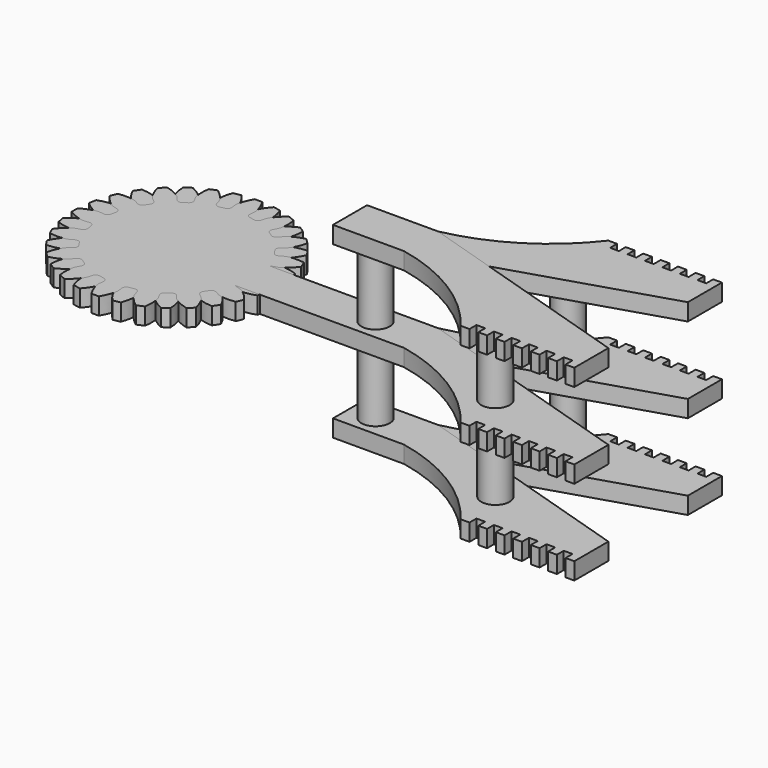
from build123d import *

# Parameters (mm, degrees)
PAD_DEPTH    = 3
SKETCH006_R  = 2.5
PAD010_DEPTH = 15
PAD008_DEPTH = 3
SKETCH005_R  = 2.5
PAD009_DEPTH = 15
SKETCH007_R  = 2.5
PAD011_DEPTH = 15
PAD006_DEPTH = 3
PAD007_DEPTH = 3
SKETCH008_R  = 2.5
PAD012_DEPTH = 15
PAD003_DEPTH = 3


with BuildPart() as pad:
    # InvoluteGear → Pad (new body)
    with BuildSketch(Plane(origin=(0, 0, 0), x_dir=(0.980785, 0.19509, 0), z_dir=(0, 0, 1))):
        with BuildLine():
            Line((14.139366, -1.605717), (14.972758, -1.698816))
            add(Edge.make_bspline(
                [(14.972758, -1.698816), (15.061139, -1.702923), (15.326896, -1.703611), (15.771393, -1.605021)],
                knots=[0, 0, 0, 0, 1, 1, 1, 1], degree=3))
            add(Edge.make_bspline(
                [(15.771393, -1.605021), (16.302142, -1.485065), (17.062829, -1.224624), (17.990102, -0.664599)],
                knots=[0, 0, 0, 0, 1, 1, 1, 1], degree=3))
            ThreePointArc((17.990102, -0.664599), (18.002375, 0), (17.990102, 0.664599))
            add(Edge.make_bspline(
                [(17.990102, 0.664599), (17.062829, 1.224624), (16.302142, 1.485065), (15.771393, 1.605021)],
                knots=[0, 0, 0, 0, 1, 1, 1, 1], degree=3))
            add(Edge.make_bspline(
                [(15.771393, 1.605021), (15.326896, 1.703611), (15.061139, 1.702923), (14.972758, 1.698816)],
                knots=[0, 0, 0, 0, 1, 1, 1, 1], degree=3))
            Line((14.972758, 1.698816), (14.139366, 1.605717))
            ThreePointArc((14.139366, 1.605717), (13.603637, 1.751754), (13.315176, 2.226224))
            ThreePointArc((13.315176, 2.226224), (13.240601, 2.633719), (13.153558, 3.038734))
            ThreePointArc((13.153558, 3.038734), (13.238489, 3.587477), (13.677552, 3.927412))
            Line((13.677552, 3.927412), (14.483134, 4.160325))
            add(Edge.make_bspline(
                [(14.483134, 4.160325), (14.566358, 4.190353), (14.81215, 4.291418), (15.185082, 4.552604)],
                knots=[0, 0, 0, 0, 1, 1, 1, 1], degree=3))
            add(Edge.make_bspline(
                [(15.185082, 4.552604), (15.629525, 4.866539), (16.232642, 5.398257), (16.875018, 6.270505)],
                knots=[0, 0, 0, 0, 1, 1, 1, 1], degree=3))
            ThreePointArc((16.875018, 6.270505), (16.632026, 6.889211), (16.366356, 7.498523))
            add(Edge.make_bspline(
                [(16.366356, 7.498523), (15.295356, 7.661067), (14.492906, 7.610581), (13.956652, 7.518297)],
                knots=[0, 0, 0, 0, 1, 1, 1, 1], degree=3))
            add(Edge.make_bspline(
                [(13.956652, 7.518297), (13.508262, 7.439281), (13.262997, 7.336944), (13.182916, 7.299328)],
                knots=[0, 0, 0, 0, 1, 1, 1, 1], degree=3))
            Line((13.182916, 7.299328), (12.448589, 6.894391))
            ThreePointArc((12.448589, 6.894391), (11.897755, 6.824296), (11.44968, 7.152261))
            ThreePointArc((11.44968, 7.152261), (11.22484, 7.500198), (10.98943, 7.841073))
            ThreePointArc((10.98943, 7.841073), (10.857901, 8.380547), (11.133455, 8.862628))
            Line((11.133455, 8.862628), (11.788583, 9.386095))
            add(Edge.make_bspline(
                [(11.788583, 9.386095), (11.853982, 9.445685), (12.042387, 9.633117), (12.28698, 10.017138)],
                knots=[0, 0, 0, 0, 1, 1, 1, 1], degree=3))
            add(Edge.make_bspline(
                [(12.28698, 10.017138), (12.577455, 10.477256), (12.931182, 11.199303), (13.190866, 12.250981)],
                knots=[0, 0, 0, 0, 1, 1, 1, 1], degree=3))
            ThreePointArc((13.190866, 12.250981), (12.729602, 12.729602), (12.250981, 13.190866))
            add(Edge.make_bspline(
                [(12.250981, 13.190866), (11.199303, 12.931182), (10.477256, 12.577455), (10.017138, 12.28698)],
                knots=[0, 0, 0, 0, 1, 1, 1, 1], degree=3))
            add(Edge.make_bspline(
                [(10.017138, 12.28698), (9.633117, 12.042387), (9.445685, 11.853982), (9.386095, 11.788583)],
                knots=[0, 0, 0, 0, 1, 1, 1, 1], degree=3))
            Line((9.386095, 11.788583), (8.862628, 11.133455))
            ThreePointArc((8.862628, 11.133455), (8.380547, 10.857901), (7.841073, 10.98943))
            ThreePointArc((7.841073, 10.98943), (7.500198, 11.22484), (7.152261, 11.44968))
            ThreePointArc((7.152261, 11.44968), (6.824296, 11.897755), (6.894391, 12.448589))
            Line((6.894391, 12.448589), (7.299328, 13.182916))
            add(Edge.make_bspline(
                [(7.299328, 13.182916), (7.336944, 13.262997), (7.439281, 13.508262), (7.518297, 13.956652)],
                knots=[0, 0, 0, 0, 1, 1, 1, 1], degree=3))
            add(Edge.make_bspline(
                [(7.518297, 13.956652), (7.610581, 14.492906), (7.661067, 15.295356), (7.498523, 16.366356)],
                knots=[0, 0, 0, 0, 1, 1, 1, 1], degree=3))
            ThreePointArc((7.498523, 16.366356), (6.889211, 16.632026), (6.270505, 16.875018))
            add(Edge.make_bspline(
                [(6.270505, 16.875018), (5.398257, 16.232642), (4.866539, 15.629525), (4.552604, 15.185082)],
                knots=[0, 0, 0, 0, 1, 1, 1, 1], degree=3))
            add(Edge.make_bspline(
                [(4.552604, 15.185082), (4.291418, 14.81215), (4.190353, 14.566358), (4.160325, 14.483134)],
                knots=[0, 0, 0, 0, 1, 1, 1, 1], degree=3))
            Line((4.160325, 14.483134), (3.927412, 13.677552))
            ThreePointArc((3.927412, 13.677552), (3.587477, 13.238489), (3.038734, 13.153558))
            ThreePointArc((3.038734, 13.153558), (2.633719, 13.240601), (2.226224, 13.315176))
            ThreePointArc((2.226224, 13.315176), (1.751754, 13.603637), (1.605717, 14.139366))
            Line((1.605717, 14.139366), (1.698816, 14.972758))
            add(Edge.make_bspline(
                [(1.698816, 14.972758), (1.702923, 15.061139), (1.703611, 15.326896), (1.605021, 15.771393)],
                knots=[0, 0, 0, 0, 1, 1, 1, 1], degree=3))
            add(Edge.make_bspline(
                [(1.605021, 15.771393), (1.485065, 16.302142), (1.224624, 17.062829), (0.664599, 17.990102)],
                knots=[0, 0, 0, 0, 1, 1, 1, 1], degree=3))
            ThreePointArc((0.664599, 17.990102), (0, 18.002375), (-0.664599, 17.990102))
            add(Edge.make_bspline(
                [(-0.664599, 17.990102), (-1.224624, 17.062829), (-1.485065, 16.302142), (-1.605021, 15.771393)],
                knots=[0, 0, 0, 0, 1, 1, 1, 1], degree=3))
            add(Edge.make_bspline(
                [(-1.605021, 15.771393), (-1.703611, 15.326896), (-1.702923, 15.061139), (-1.698816, 14.972758)],
                knots=[0, 0, 0, 0, 1, 1, 1, 1], degree=3))
            Line((-1.698816, 14.972758), (-1.605717, 14.139366))
            ThreePointArc((-1.605717, 14.139366), (-1.751754, 13.603637), (-2.226224, 13.315176))
            ThreePointArc((-2.226224, 13.315176), (-2.633719, 13.240601), (-3.038734, 13.153558))
            ThreePointArc((-3.038734, 13.153558), (-3.587477, 13.238489), (-3.927412, 13.677552))
            Line((-3.927412, 13.677552), (-4.160325, 14.483134))
            add(Edge.make_bspline(
                [(-4.160325, 14.483134), (-4.190353, 14.566358), (-4.291418, 14.81215), (-4.552604, 15.185082)],
                knots=[0, 0, 0, 0, 1, 1, 1, 1], degree=3))
            add(Edge.make_bspline(
                [(-4.552604, 15.185082), (-4.866539, 15.629525), (-5.398257, 16.232642), (-6.270505, 16.875018)],
                knots=[0, 0, 0, 0, 1, 1, 1, 1], degree=3))
            ThreePointArc((-6.270505, 16.875018), (-6.889211, 16.632026), (-7.498523, 16.366356))
            add(Edge.make_bspline(
                [(-7.498523, 16.366356), (-7.661067, 15.295356), (-7.610581, 14.492906), (-7.518297, 13.956652)],
                knots=[0, 0, 0, 0, 1, 1, 1, 1], degree=3))
            add(Edge.make_bspline(
                [(-7.518297, 13.956652), (-7.439281, 13.508262), (-7.336944, 13.262997), (-7.299328, 13.182916)],
                knots=[0, 0, 0, 0, 1, 1, 1, 1], degree=3))
            Line((-7.299328, 13.182916), (-6.894391, 12.448589))
            ThreePointArc((-6.894391, 12.448589), (-6.824296, 11.897755), (-7.152261, 11.44968))
            ThreePointArc((-7.152261, 11.44968), (-7.500198, 11.22484), (-7.841073, 10.98943))
            ThreePointArc((-7.841073, 10.98943), (-8.380547, 10.857901), (-8.862628, 11.133455))
            Line((-8.862628, 11.133455), (-9.386095, 11.788583))
            add(Edge.make_bspline(
                [(-9.386095, 11.788583), (-9.445685, 11.853982), (-9.633117, 12.042387), (-10.017138, 12.28698)],
                knots=[0, 0, 0, 0, 1, 1, 1, 1], degree=3))
            add(Edge.make_bspline(
                [(-10.017138, 12.28698), (-10.477256, 12.577455), (-11.199303, 12.931182), (-12.250981, 13.190866)],
                knots=[0, 0, 0, 0, 1, 1, 1, 1], degree=3))
            ThreePointArc((-12.250981, 13.190866), (-12.729602, 12.729602), (-13.190866, 12.250981))
            add(Edge.make_bspline(
                [(-13.190866, 12.250981), (-12.931182, 11.199303), (-12.577455, 10.477256), (-12.28698, 10.017138)],
                knots=[0, 0, 0, 0, 1, 1, 1, 1], degree=3))
            add(Edge.make_bspline(
                [(-12.28698, 10.017138), (-12.042387, 9.633117), (-11.853982, 9.445685), (-11.788583, 9.386095)],
                knots=[0, 0, 0, 0, 1, 1, 1, 1], degree=3))
            Line((-11.788583, 9.386095), (-11.133455, 8.862628))
            ThreePointArc((-11.133455, 8.862628), (-10.857901, 8.380547), (-10.98943, 7.841073))
            ThreePointArc((-10.98943, 7.841073), (-11.22484, 7.500198), (-11.44968, 7.152261))
            ThreePointArc((-11.44968, 7.152261), (-11.897755, 6.824296), (-12.448589, 6.894391))
            Line((-12.448589, 6.894391), (-13.182916, 7.299328))
            add(Edge.make_bspline(
                [(-13.182916, 7.299328), (-13.262997, 7.336944), (-13.508262, 7.439281), (-13.956652, 7.518297)],
                knots=[0, 0, 0, 0, 1, 1, 1, 1], degree=3))
            add(Edge.make_bspline(
                [(-13.956652, 7.518297), (-14.492906, 7.610581), (-15.295356, 7.661067), (-16.366356, 7.498523)],
                knots=[0, 0, 0, 0, 1, 1, 1, 1], degree=3))
            ThreePointArc((-16.366356, 7.498523), (-16.632026, 6.889211), (-16.875018, 6.270505))
            add(Edge.make_bspline(
                [(-16.875018, 6.270505), (-16.232642, 5.398257), (-15.629525, 4.866539), (-15.185082, 4.552604)],
                knots=[0, 0, 0, 0, 1, 1, 1, 1], degree=3))
            add(Edge.make_bspline(
                [(-15.185082, 4.552604), (-14.81215, 4.291418), (-14.566358, 4.190353), (-14.483134, 4.160325)],
                knots=[0, 0, 0, 0, 1, 1, 1, 1], degree=3))
            Line((-14.483134, 4.160325), (-13.677552, 3.927412))
            ThreePointArc((-13.677552, 3.927412), (-13.238489, 3.587477), (-13.153558, 3.038734))
            ThreePointArc((-13.153558, 3.038734), (-13.240601, 2.633719), (-13.315176, 2.226224))
            ThreePointArc((-13.315176, 2.226224), (-13.603637, 1.751754), (-14.139366, 1.605717))
            Line((-14.139366, 1.605717), (-14.972758, 1.698816))
            add(Edge.make_bspline(
                [(-14.972758, 1.698816), (-15.061139, 1.702923), (-15.326896, 1.703611), (-15.771393, 1.605021)],
                knots=[0, 0, 0, 0, 1, 1, 1, 1], degree=3))
            add(Edge.make_bspline(
                [(-15.771393, 1.605021), (-16.302142, 1.485065), (-17.062829, 1.224624), (-17.990102, 0.664599)],
                knots=[0, 0, 0, 0, 1, 1, 1, 1], degree=3))
            ThreePointArc((-17.990102, 0.664599), (-18.002375, 0), (-17.990102, -0.664599))
            add(Edge.make_bspline(
                [(-17.990102, -0.664599), (-17.062829, -1.224624), (-16.302142, -1.485065), (-15.771393, -1.605021)],
                knots=[0, 0, 0, 0, 1, 1, 1, 1], degree=3))
            add(Edge.make_bspline(
                [(-15.771393, -1.605021), (-15.326896, -1.703611), (-15.061139, -1.702923), (-14.972758, -1.698816)],
                knots=[0, 0, 0, 0, 1, 1, 1, 1], degree=3))
            Line((-14.972758, -1.698816), (-14.139366, -1.605717))
            ThreePointArc((-14.139366, -1.605717), (-13.603637, -1.751754), (-13.315176, -2.226224))
            ThreePointArc((-13.315176, -2.226224), (-13.240601, -2.633719), (-13.153558, -3.038734))
            ThreePointArc((-13.153558, -3.038734), (-13.238489, -3.587477), (-13.677552, -3.927412))
            Line((-13.677552, -3.927412), (-14.483134, -4.160325))
            add(Edge.make_bspline(
                [(-14.483134, -4.160325), (-14.566358, -4.190353), (-14.81215, -4.291418), (-15.185082, -4.552604)],
                knots=[0, 0, 0, 0, 1, 1, 1, 1], degree=3))
            add(Edge.make_bspline(
                [(-15.185082, -4.552604), (-15.629525, -4.866539), (-16.232642, -5.398257), (-16.875018, -6.270505)],
                knots=[0, 0, 0, 0, 1, 1, 1, 1], degree=3))
            ThreePointArc((-16.875018, -6.270505), (-16.632026, -6.889211), (-16.366356, -7.498523))
            add(Edge.make_bspline(
                [(-16.366356, -7.498523), (-15.295356, -7.661067), (-14.492906, -7.610581), (-13.956652, -7.518297)],
                knots=[0, 0, 0, 0, 1, 1, 1, 1], degree=3))
            add(Edge.make_bspline(
                [(-13.956652, -7.518297), (-13.508262, -7.439281), (-13.262997, -7.336944), (-13.182916, -7.299328)],
                knots=[0, 0, 0, 0, 1, 1, 1, 1], degree=3))
            Line((-13.182916, -7.299328), (-12.448589, -6.894391))
            ThreePointArc((-12.448589, -6.894391), (-11.897755, -6.824296), (-11.44968, -7.152261))
            ThreePointArc((-11.44968, -7.152261), (-11.22484, -7.500198), (-10.98943, -7.841073))
            ThreePointArc((-10.98943, -7.841073), (-10.857901, -8.380547), (-11.133455, -8.862628))
            Line((-11.133455, -8.862628), (-11.788583, -9.386095))
            add(Edge.make_bspline(
                [(-11.788583, -9.386095), (-11.853982, -9.445685), (-12.042387, -9.633117), (-12.28698, -10.017138)],
                knots=[0, 0, 0, 0, 1, 1, 1, 1], degree=3))
            add(Edge.make_bspline(
                [(-12.28698, -10.017138), (-12.577455, -10.477256), (-12.931182, -11.199303), (-13.190866, -12.250981)],
                knots=[0, 0, 0, 0, 1, 1, 1, 1], degree=3))
            ThreePointArc((-13.190866, -12.250981), (-12.729602, -12.729602), (-12.250981, -13.190866))
            add(Edge.make_bspline(
                [(-12.250981, -13.190866), (-11.199303, -12.931182), (-10.477256, -12.577455), (-10.017138, -12.28698)],
                knots=[0, 0, 0, 0, 1, 1, 1, 1], degree=3))
            add(Edge.make_bspline(
                [(-10.017138, -12.28698), (-9.633117, -12.042387), (-9.445685, -11.853982), (-9.386095, -11.788583)],
                knots=[0, 0, 0, 0, 1, 1, 1, 1], degree=3))
            Line((-9.386095, -11.788583), (-8.862628, -11.133455))
            ThreePointArc((-8.862628, -11.133455), (-8.380547, -10.857901), (-7.841073, -10.98943))
            ThreePointArc((-7.841073, -10.98943), (-7.500198, -11.22484), (-7.152261, -11.44968))
            ThreePointArc((-7.152261, -11.44968), (-6.824296, -11.897755), (-6.894391, -12.448589))
            Line((-6.894391, -12.448589), (-7.299328, -13.182916))
            add(Edge.make_bspline(
                [(-7.299328, -13.182916), (-7.336944, -13.262997), (-7.439281, -13.508262), (-7.518297, -13.956652)],
                knots=[0, 0, 0, 0, 1, 1, 1, 1], degree=3))
            add(Edge.make_bspline(
                [(-7.518297, -13.956652), (-7.610581, -14.492906), (-7.661067, -15.295356), (-7.498523, -16.366356)],
                knots=[0, 0, 0, 0, 1, 1, 1, 1], degree=3))
            ThreePointArc((-7.498523, -16.366356), (-6.889211, -16.632026), (-6.270505, -16.875018))
            add(Edge.make_bspline(
                [(-6.270505, -16.875018), (-5.398257, -16.232642), (-4.866539, -15.629525), (-4.552604, -15.185082)],
                knots=[0, 0, 0, 0, 1, 1, 1, 1], degree=3))
            add(Edge.make_bspline(
                [(-4.552604, -15.185082), (-4.291418, -14.81215), (-4.190353, -14.566358), (-4.160325, -14.483134)],
                knots=[0, 0, 0, 0, 1, 1, 1, 1], degree=3))
            Line((-4.160325, -14.483134), (-3.927412, -13.677552))
            ThreePointArc((-3.927412, -13.677552), (-3.587477, -13.238489), (-3.038734, -13.153558))
            ThreePointArc((-3.038734, -13.153558), (-2.633719, -13.240601), (-2.226224, -13.315176))
            ThreePointArc((-2.226224, -13.315176), (-1.751754, -13.603637), (-1.605717, -14.139366))
            Line((-1.605717, -14.139366), (-1.698816, -14.972758))
            add(Edge.make_bspline(
                [(-1.698816, -14.972758), (-1.702923, -15.061139), (-1.703611, -15.326896), (-1.605021, -15.771393)],
                knots=[0, 0, 0, 0, 1, 1, 1, 1], degree=3))
            add(Edge.make_bspline(
                [(-1.605021, -15.771393), (-1.485065, -16.302142), (-1.224624, -17.062829), (-0.664599, -17.990102)],
                knots=[0, 0, 0, 0, 1, 1, 1, 1], degree=3))
            ThreePointArc((-0.664599, -17.990102), (0, -18.002375), (0.664599, -17.990102))
            add(Edge.make_bspline(
                [(0.664599, -17.990102), (1.224624, -17.062829), (1.485065, -16.302142), (1.605021, -15.771393)],
                knots=[0, 0, 0, 0, 1, 1, 1, 1], degree=3))
            add(Edge.make_bspline(
                [(1.605021, -15.771393), (1.703611, -15.326896), (1.702923, -15.061139), (1.698816, -14.972758)],
                knots=[0, 0, 0, 0, 1, 1, 1, 1], degree=3))
            Line((1.698816, -14.972758), (1.605717, -14.139366))
            ThreePointArc((1.605717, -14.139366), (1.751754, -13.603637), (2.226224, -13.315176))
            ThreePointArc((2.226224, -13.315176), (2.633719, -13.240601), (3.038734, -13.153558))
            ThreePointArc((3.038734, -13.153558), (3.587477, -13.238489), (3.927412, -13.677552))
            Line((3.927412, -13.677552), (4.160325, -14.483134))
            add(Edge.make_bspline(
                [(4.160325, -14.483134), (4.190353, -14.566358), (4.291418, -14.81215), (4.552604, -15.185082)],
                knots=[0, 0, 0, 0, 1, 1, 1, 1], degree=3))
            add(Edge.make_bspline(
                [(4.552604, -15.185082), (4.866539, -15.629525), (5.398257, -16.232642), (6.270505, -16.875018)],
                knots=[0, 0, 0, 0, 1, 1, 1, 1], degree=3))
            ThreePointArc((6.270505, -16.875018), (6.889211, -16.632026), (7.498523, -16.366356))
            add(Edge.make_bspline(
                [(7.498523, -16.366356), (7.661067, -15.295356), (7.610581, -14.492906), (7.518297, -13.956652)],
                knots=[0, 0, 0, 0, 1, 1, 1, 1], degree=3))
            add(Edge.make_bspline(
                [(7.518297, -13.956652), (7.439281, -13.508262), (7.336944, -13.262997), (7.299328, -13.182916)],
                knots=[0, 0, 0, 0, 1, 1, 1, 1], degree=3))
            Line((7.299328, -13.182916), (6.894391, -12.448589))
            ThreePointArc((6.894391, -12.448589), (6.824296, -11.897755), (7.152261, -11.44968))
            ThreePointArc((7.152261, -11.44968), (7.500198, -11.22484), (7.841073, -10.98943))
            ThreePointArc((7.841073, -10.98943), (8.380547, -10.857901), (8.862628, -11.133455))
            Line((8.862628, -11.133455), (9.386095, -11.788583))
            add(Edge.make_bspline(
                [(9.386095, -11.788583), (9.445685, -11.853982), (9.633117, -12.042387), (10.017138, -12.28698)],
                knots=[0, 0, 0, 0, 1, 1, 1, 1], degree=3))
            add(Edge.make_bspline(
                [(10.017138, -12.28698), (10.477256, -12.577455), (11.199303, -12.931182), (12.250981, -13.190866)],
                knots=[0, 0, 0, 0, 1, 1, 1, 1], degree=3))
            ThreePointArc((12.250981, -13.190866), (12.729602, -12.729602), (13.190866, -12.250981))
            add(Edge.make_bspline(
                [(13.190866, -12.250981), (12.931182, -11.199303), (12.577455, -10.477256), (12.28698, -10.017138)],
                knots=[0, 0, 0, 0, 1, 1, 1, 1], degree=3))
            add(Edge.make_bspline(
                [(12.28698, -10.017138), (12.042387, -9.633117), (11.853982, -9.445685), (11.788583, -9.386095)],
                knots=[0, 0, 0, 0, 1, 1, 1, 1], degree=3))
            Line((11.788583, -9.386095), (11.133455, -8.862628))
            ThreePointArc((11.133455, -8.862628), (10.857901, -8.380547), (10.98943, -7.841073))
            ThreePointArc((10.98943, -7.841073), (11.22484, -7.500198), (11.44968, -7.152261))
            ThreePointArc((11.44968, -7.152261), (11.897755, -6.824296), (12.448589, -6.894391))
            Line((12.448589, -6.894391), (13.182916, -7.299328))
            add(Edge.make_bspline(
                [(13.182916, -7.299328), (13.262997, -7.336944), (13.508262, -7.439281), (13.956652, -7.518297)],
                knots=[0, 0, 0, 0, 1, 1, 1, 1], degree=3))
            add(Edge.make_bspline(
                [(13.956652, -7.518297), (14.492906, -7.610581), (15.295356, -7.661067), (16.366356, -7.498523)],
                knots=[0, 0, 0, 0, 1, 1, 1, 1], degree=3))
            ThreePointArc((16.366356, -7.498523), (16.632026, -6.889211), (16.875018, -6.270505))
            add(Edge.make_bspline(
                [(16.875018, -6.270505), (16.232642, -5.398257), (15.629525, -4.866539), (15.185082, -4.552604)],
                knots=[0, 0, 0, 0, 1, 1, 1, 1], degree=3))
            add(Edge.make_bspline(
                [(15.185082, -4.552604), (14.81215, -4.291418), (14.566358, -4.190353), (14.483134, -4.160325)],
                knots=[0, 0, 0, 0, 1, 1, 1, 1], degree=3))
            Line((14.483134, -4.160325), (13.677552, -3.927412))
            ThreePointArc((13.677552, -3.927412), (13.238489, -3.587477), (13.153558, -3.038734))
            ThreePointArc((13.153558, -3.038734), (13.240601, -2.633719), (13.315176, -2.226224))
            ThreePointArc((13.315176, -2.226224), (13.603637, -1.751754), (14.139366, -1.605717))
        make_face()
    extrude(amount=PAD_DEPTH)


with BuildPart() as pad010:
    # Sketch006 → Pad010 (new body)
    with BuildSketch(Plane.XY.offset(-15)):
        with Locations((35, 0)):
            Circle(SKETCH006_R)
    extrude(amount=PAD010_DEPTH)


with BuildPart() as pad008:
    # Sketch004 → Pad008 (new body)
    with BuildSketch(Plane.XY.offset(-15)):
        with BuildLine():
            Line((30.5, 3.75), (43, 3.75))
            ThreePointArc((43, 3.75), (54.125343, 8.199452), (63, 16.25))
            Line((63, 16.25), (64.53878, 16.25))
            Line((64.53878, 16.25), (64.53878, 14.719696))
            Line((64.53878, 14.719696), (66.07678, 14.719696))
            Line((66.07678, 16.225506), (66.07678, 14.719696))
            Line((66.07678, 16.225506), (67.61478, 16.225506))
            Line((67.61478, 16.225506), (67.61478, 14.719694))
            Line((67.61478, 14.719694), (69.15278, 14.719694))
            Line((69.15278, 16.225505), (69.15278, 14.719694))
            Line((69.15278, 16.225505), (70.69078, 16.225505))
            Line((70.69078, 16.225505), (70.69078, 14.681379))
            Line((70.69078, 14.681379), (72.22878, 14.681379))
            Line((72.22878, 16.229248), (72.22878, 14.681379))
            Line((72.22878, 16.229248), (73.76678, 16.229248))
            Line((73.76678, 16.229248), (73.76678, 14.681379))
            Line((73.76678, 14.681379), (75.30478, 14.681379))
            Line((75.30478, 16.198535), (75.30478, 14.681379))
            Line((75.30478, 16.198535), (76.84278, 16.198535))
            Line((76.84278, 16.198535), (76.84278, 14.681379))
            Line((76.84278, 14.681379), (78.38078, 14.681379))
            Line((78.38078, 16.233595), (78.38078, 14.681379))
            Line((78.38078, 16.233595), (79.91878, 16.233595))
            Line((79.91878, 16.233595), (79.91878, 14.719693))
            Line((79.91878, 14.719693), (81.45678, 14.719693))
            Line((81.45678, 16.25), (81.45678, 14.719693))
            Line((83, 16.25), (81.45678, 16.25))
            Line((83, 8.75), (83, 16.25))
            Line((83, 8.75), (43, -3.75))
            Line((43, -3.75), (30.5, -3.75))
            Line((30.5, -3.75), (30.5, 3.75))
        make_face()
    extrude(amount=PAD008_DEPTH)


with BuildPart() as pad009:
    # Sketch005 → Pad009 (new body)
    with BuildSketch(Plane.XY):
        with Locations((35, 0)):
            Circle(SKETCH005_R)
    extrude(amount=PAD009_DEPTH)


with BuildPart() as pad011:
    # Sketch007 → Pad011 (new body)
    with BuildSketch(Plane.XY):
        with Locations((62.5, 8)):
            Circle(SKETCH007_R)
    extrude(amount=PAD011_DEPTH)


with BuildPart() as pad006:
    # Sketch002 → Pad006 (new body)
    with BuildSketch(Plane.XY):
        with BuildLine():
            Line((13, 3.75), (43, 3.75))
            ThreePointArc((43, 3.75), (54.123354, 8.202634), (63, 16.25))
            Line((63, 16.25), (64.53878, 16.25))
            Line((64.53878, 16.25), (64.53878, 14.719696))
            Line((64.53878, 14.719696), (66.07678, 14.719696))
            Line((66.07678, 16.225506), (66.07678, 14.719696))
            Line((66.07678, 16.225506), (67.61478, 16.225506))
            Line((67.61478, 16.225506), (67.61478, 14.719694))
            Line((67.61478, 14.719694), (69.15278, 14.719694))
            Line((69.15278, 16.225505), (69.15278, 14.719694))
            Line((69.15278, 16.225505), (70.69078, 16.225505))
            Line((70.69078, 16.225505), (70.69078, 14.681379))
            Line((70.69078, 14.681379), (72.22878, 14.681379))
            Line((72.22878, 16.229248), (72.22878, 14.681379))
            Line((72.22878, 16.229248), (73.76678, 16.229248))
            Line((73.76678, 16.229248), (73.76678, 14.681379))
            Line((73.76678, 14.681379), (75.30478, 14.681379))
            Line((75.30478, 16.198535), (75.30478, 14.681379))
            Line((75.30478, 16.198535), (76.84278, 16.198535))
            Line((76.84278, 16.198535), (76.84278, 14.681379))
            Line((76.84278, 14.681379), (78.38078, 14.681379))
            Line((78.38078, 16.233595), (78.38078, 14.681379))
            Line((78.38078, 16.233595), (79.91878, 16.233595))
            Line((79.91878, 16.233595), (79.91878, 14.719693))
            Line((79.91878, 14.719693), (81.45678, 14.719693))
            Line((81.45678, 16.25), (81.45678, 14.719693))
            Line((83, 16.25), (81.45678, 16.25))
            Line((83, 8.75), (83, 16.25))
            Line((83, 8.75), (43, -3.75))
            Line((43, -3.75), (13, -3.75))
            Line((13, -3.75), (13, 3.75))
        make_face()
    extrude(amount=PAD006_DEPTH)


with BuildPart() as pad007:
    # Sketch003 → Pad007 (new body)
    with BuildSketch(Plane.XY.offset(15)):
        with BuildLine():
            Line((30.5, 3.75), (43, 3.75))
            ThreePointArc((43, 3.75), (54.125343, 8.199452), (63, 16.25))
            Line((63, 16.25), (64.53878, 16.25))
            Line((64.53878, 16.25), (64.53878, 14.719696))
            Line((64.53878, 14.719696), (66.07678, 14.719696))
            Line((66.07678, 16.225506), (66.07678, 14.719696))
            Line((66.07678, 16.225506), (67.61478, 16.225506))
            Line((67.61478, 16.225506), (67.61478, 14.719694))
            Line((67.61478, 14.719694), (69.15278, 14.719694))
            Line((69.15278, 16.225505), (69.15278, 14.719694))
            Line((69.15278, 16.225505), (70.69078, 16.225505))
            Line((70.69078, 16.225505), (70.69078, 14.681379))
            Line((70.69078, 14.681379), (72.22878, 14.681379))
            Line((72.22878, 16.229248), (72.22878, 14.681379))
            Line((72.22878, 16.229248), (73.76678, 16.229248))
            Line((73.76678, 16.229248), (73.76678, 14.681379))
            Line((73.76678, 14.681379), (75.30478, 14.681379))
            Line((75.30478, 16.198535), (75.30478, 14.681379))
            Line((75.30478, 16.198535), (76.84278, 16.198535))
            Line((76.84278, 16.198535), (76.84278, 14.681379))
            Line((76.84278, 14.681379), (78.38078, 14.681379))
            Line((78.38078, 16.233595), (78.38078, 14.681379))
            Line((78.38078, 16.233595), (79.91878, 16.233595))
            Line((79.91878, 16.233595), (79.91878, 14.719693))
            Line((79.91878, 14.719693), (81.45678, 14.719693))
            Line((81.45678, 16.25), (81.45678, 14.719693))
            Line((83, 16.25), (81.45678, 16.25))
            Line((83, 8.75), (83, 16.25))
            Line((83, 8.75), (43, -3.75))
            Line((43, -3.75), (30.5, -3.75))
            Line((30.5, -3.75), (30.5, 3.75))
        make_face()
    extrude(amount=PAD007_DEPTH)


with BuildPart() as fusion:
    # Sketch008 → Pad012 (new body)
    with BuildSketch(Plane.XY.offset(-15)):
        with Locations((62.5, 8)):
            Circle(SKETCH008_R)
    extrude(amount=PAD012_DEPTH)

    # Fusion: union Pad010, Pad008, Pad009, Pad011, Pad006, Pad007
    add(pad010.part)
    add(pad008.part)
    add(pad009.part)
    add(pad011.part)
    add(pad006.part)
    add(pad007.part)


with BuildPart() as right_hand:
    # Fusion002 base: copy of Fusion
    add(fusion.part)

    # Fusion002: union Pad
    add(pad.part)


with BuildPart() as part_mirroring001:
    # Part__Mirroring001: instance of Fusion
    add(fusion.part.mirror(Plane(origin=(0, 0, 0), x_dir=(1, 0, 0), z_dir=(0, 1, 0))))


with BuildPart() as left_hand:
    # InvoluteGear001 → Pad003 (new body)
    with BuildSketch(Plane.XY):
        with BuildLine():
            Line((14.139366, -1.605717), (14.972758, -1.698816))
            add(Edge.make_bspline(
                [(14.972758, -1.698816), (15.061139, -1.702923), (15.326896, -1.703611), (15.771393, -1.605021)],
                knots=[0, 0, 0, 0, 1, 1, 1, 1], degree=3))
            add(Edge.make_bspline(
                [(15.771393, -1.605021), (16.302142, -1.485065), (17.062829, -1.224624), (17.990102, -0.664599)],
                knots=[0, 0, 0, 0, 1, 1, 1, 1], degree=3))
            ThreePointArc((17.990102, -0.664599), (18.002375, 0), (17.990102, 0.664599))
            add(Edge.make_bspline(
                [(17.990102, 0.664599), (17.062829, 1.224624), (16.302142, 1.485065), (15.771393, 1.605021)],
                knots=[0, 0, 0, 0, 1, 1, 1, 1], degree=3))
            add(Edge.make_bspline(
                [(15.771393, 1.605021), (15.326896, 1.703611), (15.061139, 1.702923), (14.972758, 1.698816)],
                knots=[0, 0, 0, 0, 1, 1, 1, 1], degree=3))
            Line((14.972758, 1.698816), (14.139366, 1.605717))
            ThreePointArc((14.139366, 1.605717), (13.603637, 1.751754), (13.315176, 2.226224))
            ThreePointArc((13.315176, 2.226224), (13.240601, 2.633719), (13.153558, 3.038734))
            ThreePointArc((13.153558, 3.038734), (13.238489, 3.587477), (13.677552, 3.927412))
            Line((13.677552, 3.927412), (14.483134, 4.160325))
            add(Edge.make_bspline(
                [(14.483134, 4.160325), (14.566358, 4.190353), (14.81215, 4.291418), (15.185082, 4.552604)],
                knots=[0, 0, 0, 0, 1, 1, 1, 1], degree=3))
            add(Edge.make_bspline(
                [(15.185082, 4.552604), (15.629525, 4.866539), (16.232642, 5.398257), (16.875018, 6.270505)],
                knots=[0, 0, 0, 0, 1, 1, 1, 1], degree=3))
            ThreePointArc((16.875018, 6.270505), (16.632026, 6.889211), (16.366356, 7.498523))
            add(Edge.make_bspline(
                [(16.366356, 7.498523), (15.295356, 7.661067), (14.492906, 7.610581), (13.956652, 7.518297)],
                knots=[0, 0, 0, 0, 1, 1, 1, 1], degree=3))
            add(Edge.make_bspline(
                [(13.956652, 7.518297), (13.508262, 7.439281), (13.262997, 7.336944), (13.182916, 7.299328)],
                knots=[0, 0, 0, 0, 1, 1, 1, 1], degree=3))
            Line((13.182916, 7.299328), (12.448589, 6.894391))
            ThreePointArc((12.448589, 6.894391), (11.897755, 6.824296), (11.44968, 7.152261))
            ThreePointArc((11.44968, 7.152261), (11.22484, 7.500198), (10.98943, 7.841073))
            ThreePointArc((10.98943, 7.841073), (10.857901, 8.380547), (11.133455, 8.862628))
            Line((11.133455, 8.862628), (11.788583, 9.386095))
            add(Edge.make_bspline(
                [(11.788583, 9.386095), (11.853982, 9.445685), (12.042387, 9.633117), (12.28698, 10.017138)],
                knots=[0, 0, 0, 0, 1, 1, 1, 1], degree=3))
            add(Edge.make_bspline(
                [(12.28698, 10.017138), (12.577455, 10.477256), (12.931182, 11.199303), (13.190866, 12.250981)],
                knots=[0, 0, 0, 0, 1, 1, 1, 1], degree=3))
            ThreePointArc((13.190866, 12.250981), (12.729602, 12.729602), (12.250981, 13.190866))
            add(Edge.make_bspline(
                [(12.250981, 13.190866), (11.199303, 12.931182), (10.477256, 12.577455), (10.017138, 12.28698)],
                knots=[0, 0, 0, 0, 1, 1, 1, 1], degree=3))
            add(Edge.make_bspline(
                [(10.017138, 12.28698), (9.633117, 12.042387), (9.445685, 11.853982), (9.386095, 11.788583)],
                knots=[0, 0, 0, 0, 1, 1, 1, 1], degree=3))
            Line((9.386095, 11.788583), (8.862628, 11.133455))
            ThreePointArc((8.862628, 11.133455), (8.380547, 10.857901), (7.841073, 10.98943))
            ThreePointArc((7.841073, 10.98943), (7.500198, 11.22484), (7.152261, 11.44968))
            ThreePointArc((7.152261, 11.44968), (6.824296, 11.897755), (6.894391, 12.448589))
            Line((6.894391, 12.448589), (7.299328, 13.182916))
            add(Edge.make_bspline(
                [(7.299328, 13.182916), (7.336944, 13.262997), (7.439281, 13.508262), (7.518297, 13.956652)],
                knots=[0, 0, 0, 0, 1, 1, 1, 1], degree=3))
            add(Edge.make_bspline(
                [(7.518297, 13.956652), (7.610581, 14.492906), (7.661067, 15.295356), (7.498523, 16.366356)],
                knots=[0, 0, 0, 0, 1, 1, 1, 1], degree=3))
            ThreePointArc((7.498523, 16.366356), (6.889211, 16.632026), (6.270505, 16.875018))
            add(Edge.make_bspline(
                [(6.270505, 16.875018), (5.398257, 16.232642), (4.866539, 15.629525), (4.552604, 15.185082)],
                knots=[0, 0, 0, 0, 1, 1, 1, 1], degree=3))
            add(Edge.make_bspline(
                [(4.552604, 15.185082), (4.291418, 14.81215), (4.190353, 14.566358), (4.160325, 14.483134)],
                knots=[0, 0, 0, 0, 1, 1, 1, 1], degree=3))
            Line((4.160325, 14.483134), (3.927412, 13.677552))
            ThreePointArc((3.927412, 13.677552), (3.587477, 13.238489), (3.038734, 13.153558))
            ThreePointArc((3.038734, 13.153558), (2.633719, 13.240601), (2.226224, 13.315176))
            ThreePointArc((2.226224, 13.315176), (1.751754, 13.603637), (1.605717, 14.139366))
            Line((1.605717, 14.139366), (1.698816, 14.972758))
            add(Edge.make_bspline(
                [(1.698816, 14.972758), (1.702923, 15.061139), (1.703611, 15.326896), (1.605021, 15.771393)],
                knots=[0, 0, 0, 0, 1, 1, 1, 1], degree=3))
            add(Edge.make_bspline(
                [(1.605021, 15.771393), (1.485065, 16.302142), (1.224624, 17.062829), (0.664599, 17.990102)],
                knots=[0, 0, 0, 0, 1, 1, 1, 1], degree=3))
            ThreePointArc((0.664599, 17.990102), (0, 18.002375), (-0.664599, 17.990102))
            add(Edge.make_bspline(
                [(-0.664599, 17.990102), (-1.224624, 17.062829), (-1.485065, 16.302142), (-1.605021, 15.771393)],
                knots=[0, 0, 0, 0, 1, 1, 1, 1], degree=3))
            add(Edge.make_bspline(
                [(-1.605021, 15.771393), (-1.703611, 15.326896), (-1.702923, 15.061139), (-1.698816, 14.972758)],
                knots=[0, 0, 0, 0, 1, 1, 1, 1], degree=3))
            Line((-1.698816, 14.972758), (-1.605717, 14.139366))
            ThreePointArc((-1.605717, 14.139366), (-1.751754, 13.603637), (-2.226224, 13.315176))
            ThreePointArc((-2.226224, 13.315176), (-2.633719, 13.240601), (-3.038734, 13.153558))
            ThreePointArc((-3.038734, 13.153558), (-3.587477, 13.238489), (-3.927412, 13.677552))
            Line((-3.927412, 13.677552), (-4.160325, 14.483134))
            add(Edge.make_bspline(
                [(-4.160325, 14.483134), (-4.190353, 14.566358), (-4.291418, 14.81215), (-4.552604, 15.185082)],
                knots=[0, 0, 0, 0, 1, 1, 1, 1], degree=3))
            add(Edge.make_bspline(
                [(-4.552604, 15.185082), (-4.866539, 15.629525), (-5.398257, 16.232642), (-6.270505, 16.875018)],
                knots=[0, 0, 0, 0, 1, 1, 1, 1], degree=3))
            ThreePointArc((-6.270505, 16.875018), (-6.889211, 16.632026), (-7.498523, 16.366356))
            add(Edge.make_bspline(
                [(-7.498523, 16.366356), (-7.661067, 15.295356), (-7.610581, 14.492906), (-7.518297, 13.956652)],
                knots=[0, 0, 0, 0, 1, 1, 1, 1], degree=3))
            add(Edge.make_bspline(
                [(-7.518297, 13.956652), (-7.439281, 13.508262), (-7.336944, 13.262997), (-7.299328, 13.182916)],
                knots=[0, 0, 0, 0, 1, 1, 1, 1], degree=3))
            Line((-7.299328, 13.182916), (-6.894391, 12.448589))
            ThreePointArc((-6.894391, 12.448589), (-6.824296, 11.897755), (-7.152261, 11.44968))
            ThreePointArc((-7.152261, 11.44968), (-7.500198, 11.22484), (-7.841073, 10.98943))
            ThreePointArc((-7.841073, 10.98943), (-8.380547, 10.857901), (-8.862628, 11.133455))
            Line((-8.862628, 11.133455), (-9.386095, 11.788583))
            add(Edge.make_bspline(
                [(-9.386095, 11.788583), (-9.445685, 11.853982), (-9.633117, 12.042387), (-10.017138, 12.28698)],
                knots=[0, 0, 0, 0, 1, 1, 1, 1], degree=3))
            add(Edge.make_bspline(
                [(-10.017138, 12.28698), (-10.477256, 12.577455), (-11.199303, 12.931182), (-12.250981, 13.190866)],
                knots=[0, 0, 0, 0, 1, 1, 1, 1], degree=3))
            ThreePointArc((-12.250981, 13.190866), (-12.729602, 12.729602), (-13.190866, 12.250981))
            add(Edge.make_bspline(
                [(-13.190866, 12.250981), (-12.931182, 11.199303), (-12.577455, 10.477256), (-12.28698, 10.017138)],
                knots=[0, 0, 0, 0, 1, 1, 1, 1], degree=3))
            add(Edge.make_bspline(
                [(-12.28698, 10.017138), (-12.042387, 9.633117), (-11.853982, 9.445685), (-11.788583, 9.386095)],
                knots=[0, 0, 0, 0, 1, 1, 1, 1], degree=3))
            Line((-11.788583, 9.386095), (-11.133455, 8.862628))
            ThreePointArc((-11.133455, 8.862628), (-10.857901, 8.380547), (-10.98943, 7.841073))
            ThreePointArc((-10.98943, 7.841073), (-11.22484, 7.500198), (-11.44968, 7.152261))
            ThreePointArc((-11.44968, 7.152261), (-11.897755, 6.824296), (-12.448589, 6.894391))
            Line((-12.448589, 6.894391), (-13.182916, 7.299328))
            add(Edge.make_bspline(
                [(-13.182916, 7.299328), (-13.262997, 7.336944), (-13.508262, 7.439281), (-13.956652, 7.518297)],
                knots=[0, 0, 0, 0, 1, 1, 1, 1], degree=3))
            add(Edge.make_bspline(
                [(-13.956652, 7.518297), (-14.492906, 7.610581), (-15.295356, 7.661067), (-16.366356, 7.498523)],
                knots=[0, 0, 0, 0, 1, 1, 1, 1], degree=3))
            ThreePointArc((-16.366356, 7.498523), (-16.632026, 6.889211), (-16.875018, 6.270505))
            add(Edge.make_bspline(
                [(-16.875018, 6.270505), (-16.232642, 5.398257), (-15.629525, 4.866539), (-15.185082, 4.552604)],
                knots=[0, 0, 0, 0, 1, 1, 1, 1], degree=3))
            add(Edge.make_bspline(
                [(-15.185082, 4.552604), (-14.81215, 4.291418), (-14.566358, 4.190353), (-14.483134, 4.160325)],
                knots=[0, 0, 0, 0, 1, 1, 1, 1], degree=3))
            Line((-14.483134, 4.160325), (-13.677552, 3.927412))
            ThreePointArc((-13.677552, 3.927412), (-13.238489, 3.587477), (-13.153558, 3.038734))
            ThreePointArc((-13.153558, 3.038734), (-13.240601, 2.633719), (-13.315176, 2.226224))
            ThreePointArc((-13.315176, 2.226224), (-13.603637, 1.751754), (-14.139366, 1.605717))
            Line((-14.139366, 1.605717), (-14.972758, 1.698816))
            add(Edge.make_bspline(
                [(-14.972758, 1.698816), (-15.061139, 1.702923), (-15.326896, 1.703611), (-15.771393, 1.605021)],
                knots=[0, 0, 0, 0, 1, 1, 1, 1], degree=3))
            add(Edge.make_bspline(
                [(-15.771393, 1.605021), (-16.302142, 1.485065), (-17.062829, 1.224624), (-17.990102, 0.664599)],
                knots=[0, 0, 0, 0, 1, 1, 1, 1], degree=3))
            ThreePointArc((-17.990102, 0.664599), (-18.002375, 0), (-17.990102, -0.664599))
            add(Edge.make_bspline(
                [(-17.990102, -0.664599), (-17.062829, -1.224624), (-16.302142, -1.485065), (-15.771393, -1.605021)],
                knots=[0, 0, 0, 0, 1, 1, 1, 1], degree=3))
            add(Edge.make_bspline(
                [(-15.771393, -1.605021), (-15.326896, -1.703611), (-15.061139, -1.702923), (-14.972758, -1.698816)],
                knots=[0, 0, 0, 0, 1, 1, 1, 1], degree=3))
            Line((-14.972758, -1.698816), (-14.139366, -1.605717))
            ThreePointArc((-14.139366, -1.605717), (-13.603637, -1.751754), (-13.315176, -2.226224))
            ThreePointArc((-13.315176, -2.226224), (-13.240601, -2.633719), (-13.153558, -3.038734))
            ThreePointArc((-13.153558, -3.038734), (-13.238489, -3.587477), (-13.677552, -3.927412))
            Line((-13.677552, -3.927412), (-14.483134, -4.160325))
            add(Edge.make_bspline(
                [(-14.483134, -4.160325), (-14.566358, -4.190353), (-14.81215, -4.291418), (-15.185082, -4.552604)],
                knots=[0, 0, 0, 0, 1, 1, 1, 1], degree=3))
            add(Edge.make_bspline(
                [(-15.185082, -4.552604), (-15.629525, -4.866539), (-16.232642, -5.398257), (-16.875018, -6.270505)],
                knots=[0, 0, 0, 0, 1, 1, 1, 1], degree=3))
            ThreePointArc((-16.875018, -6.270505), (-16.632026, -6.889211), (-16.366356, -7.498523))
            add(Edge.make_bspline(
                [(-16.366356, -7.498523), (-15.295356, -7.661067), (-14.492906, -7.610581), (-13.956652, -7.518297)],
                knots=[0, 0, 0, 0, 1, 1, 1, 1], degree=3))
            add(Edge.make_bspline(
                [(-13.956652, -7.518297), (-13.508262, -7.439281), (-13.262997, -7.336944), (-13.182916, -7.299328)],
                knots=[0, 0, 0, 0, 1, 1, 1, 1], degree=3))
            Line((-13.182916, -7.299328), (-12.448589, -6.894391))
            ThreePointArc((-12.448589, -6.894391), (-11.897755, -6.824296), (-11.44968, -7.152261))
            ThreePointArc((-11.44968, -7.152261), (-11.22484, -7.500198), (-10.98943, -7.841073))
            ThreePointArc((-10.98943, -7.841073), (-10.857901, -8.380547), (-11.133455, -8.862628))
            Line((-11.133455, -8.862628), (-11.788583, -9.386095))
            add(Edge.make_bspline(
                [(-11.788583, -9.386095), (-11.853982, -9.445685), (-12.042387, -9.633117), (-12.28698, -10.017138)],
                knots=[0, 0, 0, 0, 1, 1, 1, 1], degree=3))
            add(Edge.make_bspline(
                [(-12.28698, -10.017138), (-12.577455, -10.477256), (-12.931182, -11.199303), (-13.190866, -12.250981)],
                knots=[0, 0, 0, 0, 1, 1, 1, 1], degree=3))
            ThreePointArc((-13.190866, -12.250981), (-12.729602, -12.729602), (-12.250981, -13.190866))
            add(Edge.make_bspline(
                [(-12.250981, -13.190866), (-11.199303, -12.931182), (-10.477256, -12.577455), (-10.017138, -12.28698)],
                knots=[0, 0, 0, 0, 1, 1, 1, 1], degree=3))
            add(Edge.make_bspline(
                [(-10.017138, -12.28698), (-9.633117, -12.042387), (-9.445685, -11.853982), (-9.386095, -11.788583)],
                knots=[0, 0, 0, 0, 1, 1, 1, 1], degree=3))
            Line((-9.386095, -11.788583), (-8.862628, -11.133455))
            ThreePointArc((-8.862628, -11.133455), (-8.380547, -10.857901), (-7.841073, -10.98943))
            ThreePointArc((-7.841073, -10.98943), (-7.500198, -11.22484), (-7.152261, -11.44968))
            ThreePointArc((-7.152261, -11.44968), (-6.824296, -11.897755), (-6.894391, -12.448589))
            Line((-6.894391, -12.448589), (-7.299328, -13.182916))
            add(Edge.make_bspline(
                [(-7.299328, -13.182916), (-7.336944, -13.262997), (-7.439281, -13.508262), (-7.518297, -13.956652)],
                knots=[0, 0, 0, 0, 1, 1, 1, 1], degree=3))
            add(Edge.make_bspline(
                [(-7.518297, -13.956652), (-7.610581, -14.492906), (-7.661067, -15.295356), (-7.498523, -16.366356)],
                knots=[0, 0, 0, 0, 1, 1, 1, 1], degree=3))
            ThreePointArc((-7.498523, -16.366356), (-6.889211, -16.632026), (-6.270505, -16.875018))
            add(Edge.make_bspline(
                [(-6.270505, -16.875018), (-5.398257, -16.232642), (-4.866539, -15.629525), (-4.552604, -15.185082)],
                knots=[0, 0, 0, 0, 1, 1, 1, 1], degree=3))
            add(Edge.make_bspline(
                [(-4.552604, -15.185082), (-4.291418, -14.81215), (-4.190353, -14.566358), (-4.160325, -14.483134)],
                knots=[0, 0, 0, 0, 1, 1, 1, 1], degree=3))
            Line((-4.160325, -14.483134), (-3.927412, -13.677552))
            ThreePointArc((-3.927412, -13.677552), (-3.587477, -13.238489), (-3.038734, -13.153558))
            ThreePointArc((-3.038734, -13.153558), (-2.633719, -13.240601), (-2.226224, -13.315176))
            ThreePointArc((-2.226224, -13.315176), (-1.751754, -13.603637), (-1.605717, -14.139366))
            Line((-1.605717, -14.139366), (-1.698816, -14.972758))
            add(Edge.make_bspline(
                [(-1.698816, -14.972758), (-1.702923, -15.061139), (-1.703611, -15.326896), (-1.605021, -15.771393)],
                knots=[0, 0, 0, 0, 1, 1, 1, 1], degree=3))
            add(Edge.make_bspline(
                [(-1.605021, -15.771393), (-1.485065, -16.302142), (-1.224624, -17.062829), (-0.664599, -17.990102)],
                knots=[0, 0, 0, 0, 1, 1, 1, 1], degree=3))
            ThreePointArc((-0.664599, -17.990102), (0, -18.002375), (0.664599, -17.990102))
            add(Edge.make_bspline(
                [(0.664599, -17.990102), (1.224624, -17.062829), (1.485065, -16.302142), (1.605021, -15.771393)],
                knots=[0, 0, 0, 0, 1, 1, 1, 1], degree=3))
            add(Edge.make_bspline(
                [(1.605021, -15.771393), (1.703611, -15.326896), (1.702923, -15.061139), (1.698816, -14.972758)],
                knots=[0, 0, 0, 0, 1, 1, 1, 1], degree=3))
            Line((1.698816, -14.972758), (1.605717, -14.139366))
            ThreePointArc((1.605717, -14.139366), (1.751754, -13.603637), (2.226224, -13.315176))
            ThreePointArc((2.226224, -13.315176), (2.633719, -13.240601), (3.038734, -13.153558))
            ThreePointArc((3.038734, -13.153558), (3.587477, -13.238489), (3.927412, -13.677552))
            Line((3.927412, -13.677552), (4.160325, -14.483134))
            add(Edge.make_bspline(
                [(4.160325, -14.483134), (4.190353, -14.566358), (4.291418, -14.81215), (4.552604, -15.185082)],
                knots=[0, 0, 0, 0, 1, 1, 1, 1], degree=3))
            add(Edge.make_bspline(
                [(4.552604, -15.185082), (4.866539, -15.629525), (5.398257, -16.232642), (6.270505, -16.875018)],
                knots=[0, 0, 0, 0, 1, 1, 1, 1], degree=3))
            ThreePointArc((6.270505, -16.875018), (6.889211, -16.632026), (7.498523, -16.366356))
            add(Edge.make_bspline(
                [(7.498523, -16.366356), (7.661067, -15.295356), (7.610581, -14.492906), (7.518297, -13.956652)],
                knots=[0, 0, 0, 0, 1, 1, 1, 1], degree=3))
            add(Edge.make_bspline(
                [(7.518297, -13.956652), (7.439281, -13.508262), (7.336944, -13.262997), (7.299328, -13.182916)],
                knots=[0, 0, 0, 0, 1, 1, 1, 1], degree=3))
            Line((7.299328, -13.182916), (6.894391, -12.448589))
            ThreePointArc((6.894391, -12.448589), (6.824296, -11.897755), (7.152261, -11.44968))
            ThreePointArc((7.152261, -11.44968), (7.500198, -11.22484), (7.841073, -10.98943))
            ThreePointArc((7.841073, -10.98943), (8.380547, -10.857901), (8.862628, -11.133455))
            Line((8.862628, -11.133455), (9.386095, -11.788583))
            add(Edge.make_bspline(
                [(9.386095, -11.788583), (9.445685, -11.853982), (9.633117, -12.042387), (10.017138, -12.28698)],
                knots=[0, 0, 0, 0, 1, 1, 1, 1], degree=3))
            add(Edge.make_bspline(
                [(10.017138, -12.28698), (10.477256, -12.577455), (11.199303, -12.931182), (12.250981, -13.190866)],
                knots=[0, 0, 0, 0, 1, 1, 1, 1], degree=3))
            ThreePointArc((12.250981, -13.190866), (12.729602, -12.729602), (13.190866, -12.250981))
            add(Edge.make_bspline(
                [(13.190866, -12.250981), (12.931182, -11.199303), (12.577455, -10.477256), (12.28698, -10.017138)],
                knots=[0, 0, 0, 0, 1, 1, 1, 1], degree=3))
            add(Edge.make_bspline(
                [(12.28698, -10.017138), (12.042387, -9.633117), (11.853982, -9.445685), (11.788583, -9.386095)],
                knots=[0, 0, 0, 0, 1, 1, 1, 1], degree=3))
            Line((11.788583, -9.386095), (11.133455, -8.862628))
            ThreePointArc((11.133455, -8.862628), (10.857901, -8.380547), (10.98943, -7.841073))
            ThreePointArc((10.98943, -7.841073), (11.22484, -7.500198), (11.44968, -7.152261))
            ThreePointArc((11.44968, -7.152261), (11.897755, -6.824296), (12.448589, -6.894391))
            Line((12.448589, -6.894391), (13.182916, -7.299328))
            add(Edge.make_bspline(
                [(13.182916, -7.299328), (13.262997, -7.336944), (13.508262, -7.439281), (13.956652, -7.518297)],
                knots=[0, 0, 0, 0, 1, 1, 1, 1], degree=3))
            add(Edge.make_bspline(
                [(13.956652, -7.518297), (14.492906, -7.610581), (15.295356, -7.661067), (16.366356, -7.498523)],
                knots=[0, 0, 0, 0, 1, 1, 1, 1], degree=3))
            ThreePointArc((16.366356, -7.498523), (16.632026, -6.889211), (16.875018, -6.270505))
            add(Edge.make_bspline(
                [(16.875018, -6.270505), (16.232642, -5.398257), (15.629525, -4.866539), (15.185082, -4.552604)],
                knots=[0, 0, 0, 0, 1, 1, 1, 1], degree=3))
            add(Edge.make_bspline(
                [(15.185082, -4.552604), (14.81215, -4.291418), (14.566358, -4.190353), (14.483134, -4.160325)],
                knots=[0, 0, 0, 0, 1, 1, 1, 1], degree=3))
            Line((14.483134, -4.160325), (13.677552, -3.927412))
            ThreePointArc((13.677552, -3.927412), (13.238489, -3.587477), (13.153558, -3.038734))
            ThreePointArc((13.153558, -3.038734), (13.240601, -2.633719), (13.315176, -2.226224))
            ThreePointArc((13.315176, -2.226224), (13.603637, -1.751754), (14.139366, -1.605717))
        make_face()
    extrude(amount=PAD003_DEPTH)

    # Fusion003: union Part__Mirroring001
    add(part_mirroring001.part)


solid = Compound([right_hand.part, left_hand.part])
